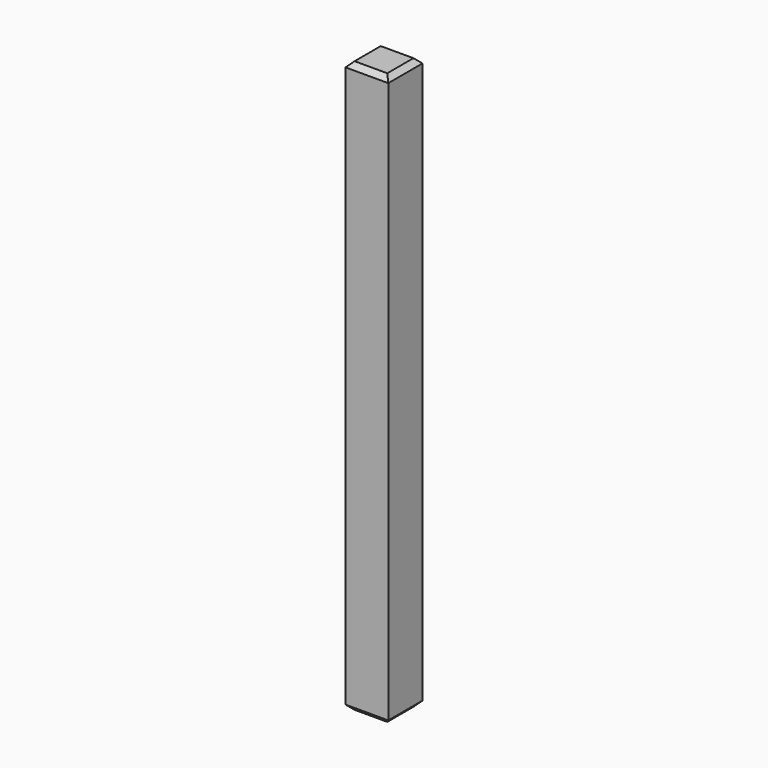
from build123d import *

# Parameters (mm, degrees)
F0_W     = 8.5
F0_H     = 8.5
F1_DEPTH = 56.75
F2_SIZE  = 1


with BuildPart() as f1:
    # F0 (on Top) → F1 (new body, symmetric)
    with BuildSketch(Plane.XY):
        Rectangle(F0_W, F0_H)
    extrude(amount=F1_DEPTH, both=True)

    # F2
    f2_edges = [f1.edges().sort_by_distance(p)[0] for p in [
        (-4.25, 0, 56.75),
        (0, -4.25, 56.75),
        (4.25, 0, 56.75),
        (0, 4.25, 56.75),
        (0, 4.25, -56.75),
        (-4.25, 0, -56.75),
        (0, -4.25, -56.75),
        (4.25, 0, -56.75),
    ]]
    chamfer(f2_edges, length=F2_SIZE)


solid = f1.part
